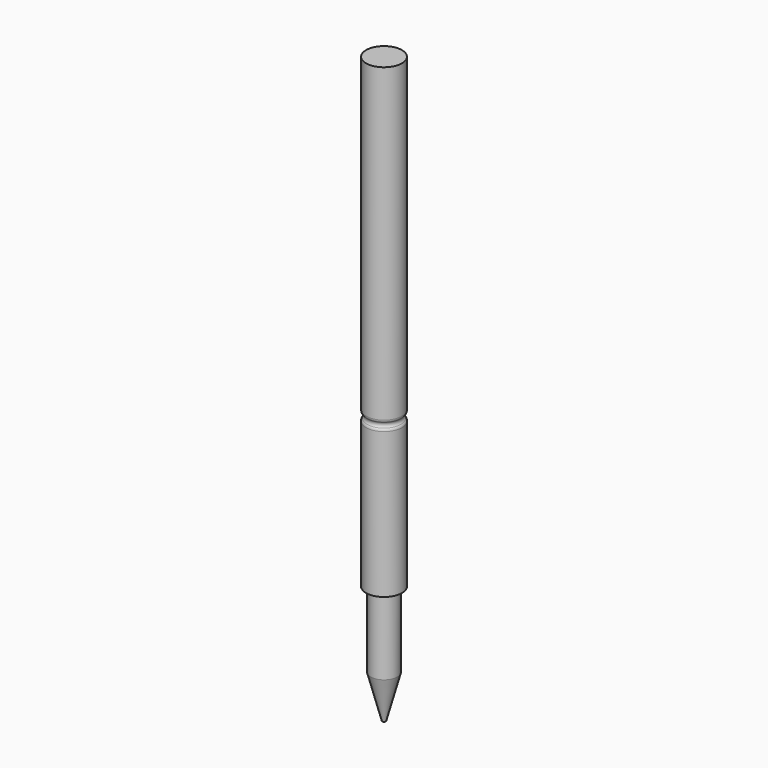
from build123d import *

# Parameters (mm, degrees)
SKETCH037_R      = 0.5
PAD003_DEPTH     = 13
SKETCH038_R      = 0.37
PAD004_DEPTH     = 3.3
CHAMFER004_ANGLE = 15
CHAMFER004_SIZE  = 1.2


with BuildPart() as part:
    # Sketch037 → Pad003 (new body)
    with BuildSketch(Plane.XY):
        Circle(SKETCH037_R)
    extrude(amount=PAD003_DEPTH)

    # Sketch048 → Groove (revolve, cut)
    with BuildSketch(Plane.YZ):
        with BuildLine():
            ThreePointArc((-0.5, 4.341421), (-0.492388, 4.303153), (-0.470711, 4.270711))
            ThreePointArc((-0.470711, 4.129289), (-0.441421, 4.2), (-0.470711, 4.270711))
            ThreePointArc((-0.470711, 4.129289), (-0.492388, 4.096847), (-0.5, 4.058579))
            Line((-0.5, 4.341421), (-0.5, 4.058579))
        make_face()
    revolve(axis=Axis((0, 0, 0), (0, 0, 1)), mode=Mode.SUBTRACT)

    # Sketch038 → Pad004 (join)
    with BuildSketch(Plane.XY):
        Circle(SKETCH038_R)
    extrude(amount=-PAD004_DEPTH)

    # Chamfer004
    chamfer004_edges = [part.edges().sort_by_distance(p)[0] for p in [
        (-0.37, 0, -3.3),
    ]]
    chamfer004_side = part.faces().sort_by_distance((-0.37, 0, -1.65))[0]
    chamfer(chamfer004_edges, length=CHAMFER004_SIZE, angle=CHAMFER004_ANGLE, reference=chamfer004_side)


with BuildPart() as part_1:
    # Body002 placement: moved
    add(part.part.moved(Location((72, -1, 8))))


with BuildPart() as part_2:
    # Clone011 placement: moved
    add(part_1.part.moved(Location((-72, 1, -8))))


with BuildPart() as part_3:
    # Body018 placement: moved
    add(part_2.part.moved(Location((73.98, 0.33, 8))))


solid = part_3.part
